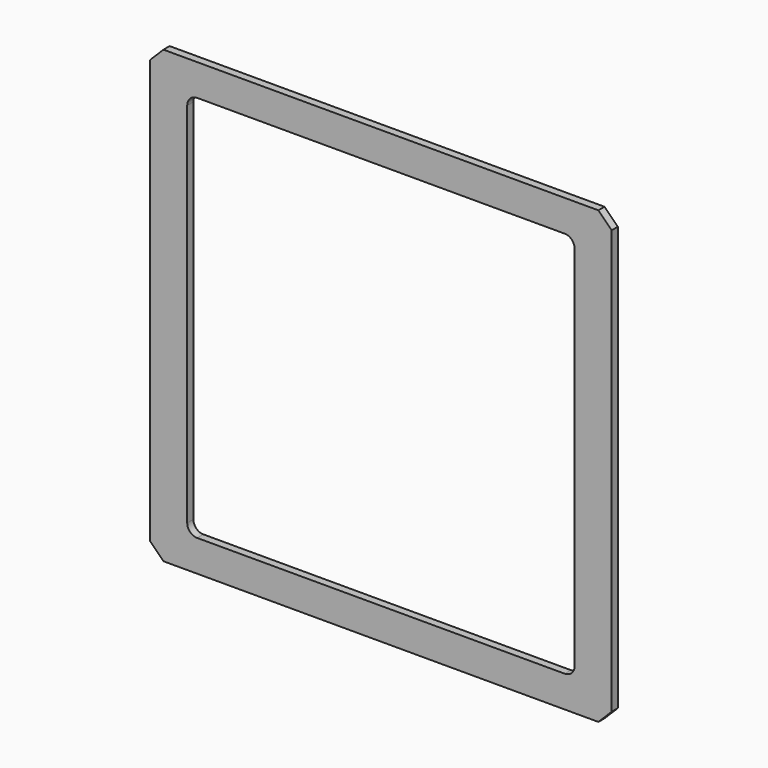
from build123d import *

# Parameters (mm, degrees)
F0_W     = 212.09
F0_H     = 207.01
F1_DEPTH = 3.556
F2_SIZE  = 6.096


with BuildPart() as f1:
    # F0 (on Front) → F1 (new body)
    with BuildSketch(Plane.XZ):
        Rectangle(F0_W, F0_H)
        with BuildLine():
            Line((84.455, -89.027), (-84.455, -89.027))
            ThreePointArc((-84.455, -89.027), (-87.687892, -87.687892), (-89.027, -84.455))
            Line((-89.027, -84.455), (-89.027, 84.455))
            ThreePointArc((-89.027, 84.455), (-87.687892, 87.687892), (-84.455, 89.027))
            Line((-84.455, 89.027), (84.455, 89.027))
            ThreePointArc((84.455, 89.027), (87.687892, 87.687892), (89.027, 84.455))
            Line((89.027, 84.455), (89.027, -84.455))
            ThreePointArc((89.027, -84.455), (87.687892, -87.687892), (84.455, -89.027))
        make_face(mode=Mode.SUBTRACT)
    extrude(amount=F1_DEPTH)

    # F2
    f2_edges = [f1.edges().sort_by_distance(p)[0] for p in [
        (-106.045, -1.778, 103.505),
        (106.045, -1.778, 103.505),
        (106.045, -1.778, -103.505),
        (-106.045, -1.778, -103.505),
    ]]
    chamfer(f2_edges, length=F2_SIZE)


solid = f1.part
